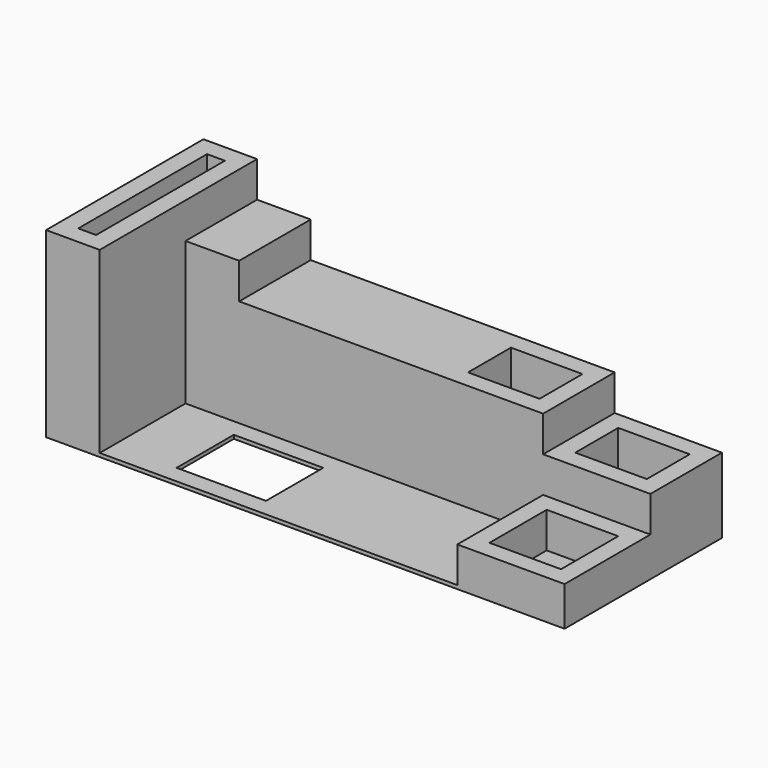
from build123d import *

# Parameters (mm, degrees)
F0_W      = 500
F0_H      = 400
F1_DEPTH  = 20
F2_W      = 600
F2_H      = 500
F2_W_2    = 400
F2_H_2    = 300
F3_DEPTH  = 400
F4_W      = 1700
F4_H      = 500
F4_W_2    = 400
F4_H_2    = 300
F5_DEPTH  = 600
F6_W      = 300
F6_H      = 500
F7_DEPTH  = 800
F8_W      = 300
F8_H      = 1100
F8_W_2    = 100
F8_H_2    = 900
F9_DEPTH  = 1000
F10_W     = 600
F10_H     = 600
F10_W_2   = 400
F10_H_2   = 400
F11_DEPTH = 200


with BuildPart() as f1:
    # F0 (on Top) → F1 (new body)
    with BuildSketch(Plane.XY):
        Polygon((-2350, 0), (0, 0), (0, 1100), (-2900, 1100), (-2900, 0), align=None)
        with Locations((-2000, 300)):
            Rectangle(F0_W, F0_H, mode=Mode.SUBTRACT)
    extrude(amount=F1_DEPTH)

    # F2 (on face) → F3 (join)
    with BuildSketch(Plane.XY.offset(20)):
        with Locations((-300, 850)):
            Rectangle(F2_W, F2_H)
        with Locations((-300, 850)):
            Rectangle(F2_W_2, F2_H_2, mode=Mode.SUBTRACT)
    extrude(amount=F3_DEPTH)

    # F4 (on face) → F5 (join)
    with BuildSketch(Plane.XY.offset(20)):
        with Locations((-1450, 850)):
            Rectangle(F4_W, F4_H)
        with Locations((-900, 850)):
            Rectangle(F4_W_2, F4_H_2, mode=Mode.SUBTRACT)
    extrude(amount=F5_DEPTH)

    # F6 (on face) → F7 (join)
    with BuildSketch(Plane.XY.offset(20)):
        with Locations((-2450, 850)):
            Rectangle(F6_W, F6_H)
    extrude(amount=F7_DEPTH)

    # F8 (on face) → F9 (join)
    with BuildSketch(Plane.XY.offset(20)):
        with Locations((-2750, 550)):
            Rectangle(F8_W, F8_H)
        with Locations((-2750, 550)):
            Rectangle(F8_W_2, F8_H_2, mode=Mode.SUBTRACT)
    extrude(amount=F9_DEPTH)

    # F10 (on face) → F11 (join)
    with BuildSketch(Plane.XY.offset(20)):
        with Locations((-300, 300)):
            Rectangle(F10_W, F10_H)
        with Locations((-300, 300)):
            Rectangle(F10_W_2, F10_H_2, mode=Mode.SUBTRACT)
    extrude(amount=F11_DEPTH)


solid = f1.part
